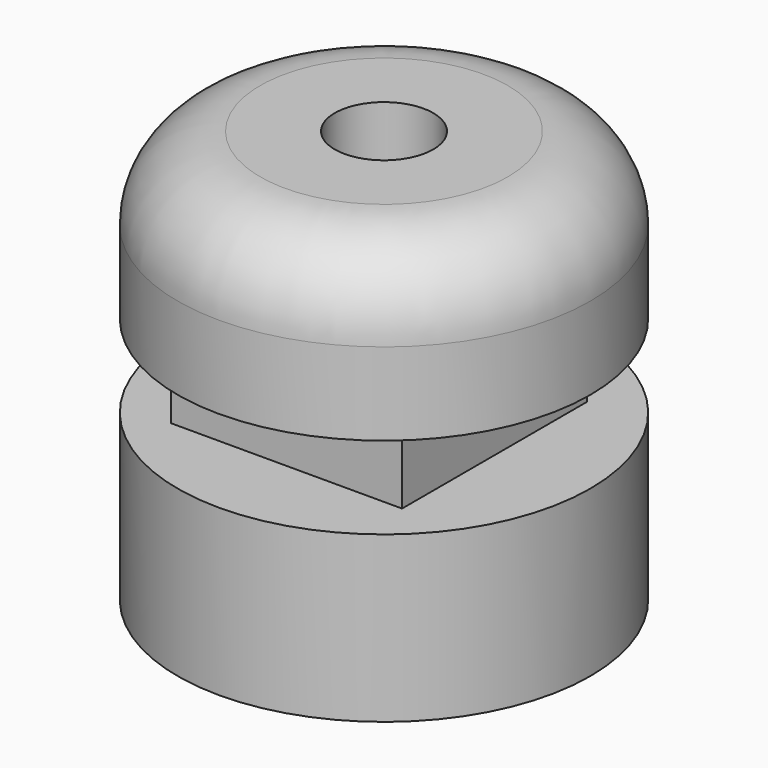
from build123d import *

# Parameters (mm, degrees)
F0_R     = 5
F1_DEPTH = 4
F2_W     = 5.6
F2_H     = 5.6
F3_DEPTH = 2
F4_R     = 5
F5_DEPTH = 4
F6_R     = 1.1936420452
F7_DEPTH = 10.001
F8_R     = 2


with BuildPart() as f1:
    # F0 (on Top) → F1 (new body)
    with BuildSketch(Plane.XY):
        Circle(F0_R)
    extrude(amount=F1_DEPTH)

    # F2 (on face) → F3 (join)
    with BuildSketch(Plane.XY.offset(4)):
        with Locations((-0.0721134877, -0.062788504)):
            Rectangle(F2_W, F2_H)
    extrude(amount=F3_DEPTH)

    # F4 (on face) → F5 (join)
    with BuildSketch(Plane.XY.offset(6)):
        Circle(F4_R)
    extrude(amount=F5_DEPTH)

    # F6 (on face) → F7 (cut, through all)
    with BuildSketch(Plane.XY.offset(10)):
        Circle(F6_R)
    extrude(amount=-F7_DEPTH, mode=Mode.SUBTRACT)

    # F8
    f8_edges = [f1.edges().sort_by_distance(p)[0] for p in [
        (-5, 0, 10),
    ]]
    fillet(f8_edges, radius=F8_R)


solid = f1.part
